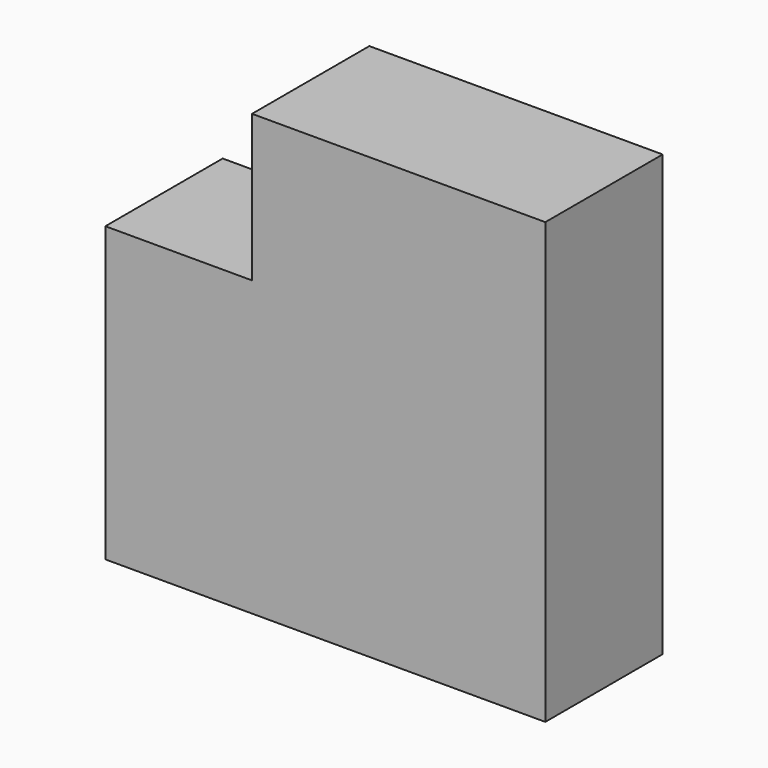
from build123d import *

# Parameters (mm, degrees)
F0_W     = 25.4
F0_H     = 25.4
F1_DEPTH = 25.4


with BuildPart() as f1:
    # F0 (on Front) → F1 (new body)
    with BuildSketch(Plane.XZ):
        with Locations((-12.7, 12.7)):
            Rectangle(F0_W, F0_H)
        with Locations((12.7, 12.7)):
            Rectangle(F0_W, F0_H)
        with Locations((-38.1, 12.7)):
            Rectangle(F0_W, F0_H)
        with Locations((12.7, 38.1)):
            Rectangle(F0_W, F0_H)
        with Locations((-12.7, 38.1)):
            Rectangle(F0_W, F0_H)
        with Locations((-38.1, 38.1)):
            Rectangle(F0_W, F0_H)
        with Locations((12.7, 63.5)):
            Rectangle(F0_W, F0_H)
        with Locations((-12.7, 63.5)):
            Rectangle(F0_W, F0_H)
    extrude(amount=F1_DEPTH)


solid = f1.part
